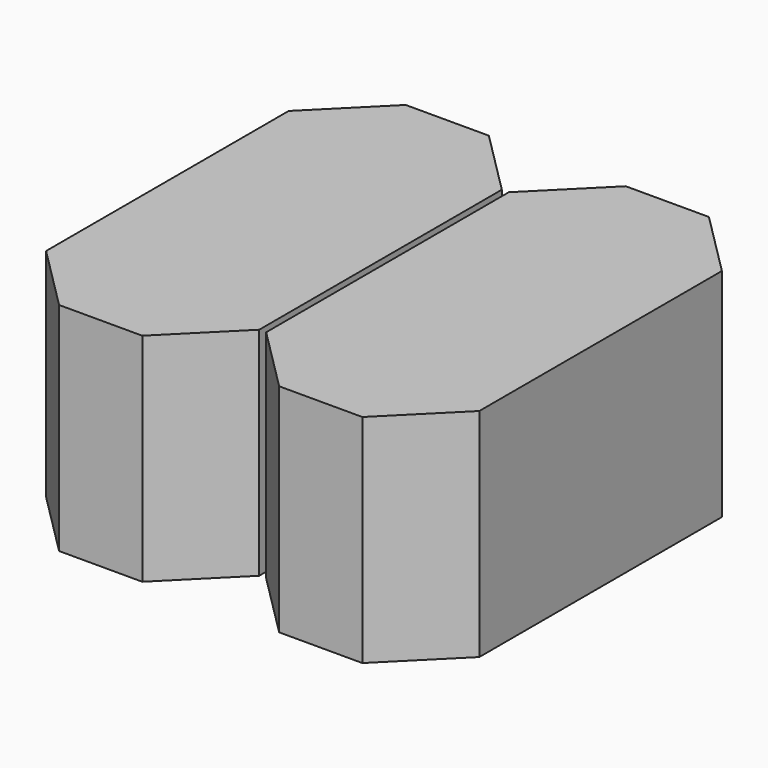
from build123d import *

# Parameters (mm, degrees)
BOX025_W         = 2.54
BOX025_H         = 3.2
BOX025_DEPTH     = 2.3
BOX023_W         = 2.46
BOX023_H         = 5
BOX023_DEPTH     = 2.5
CHAMFER004_SIZE  = 0.75
ARRAY010_X_COUNT = 2
ARRAY010_X_PITCH = 2.54


with BuildPart() as cube001:
    # Box025 → Box025 (new body)
    with BuildSketch(Plane(origin=(0, -0.33, 0.1), x_dir=(1, 0, 0), z_dir=(0, 0, 1))):
        with Locations((1.27, 1.6)):
            Rectangle(BOX025_W, BOX025_H)
    extrude(amount=BOX025_DEPTH)


with BuildPart() as body007:
    # Box023 → Box023 (new body)
    with BuildSketch(Plane(origin=(-1.23, -1.23, 0), x_dir=(1, 0, 0), z_dir=(0, 0, 1))):
        with Locations((1.23, 2.5)):
            Rectangle(BOX023_W, BOX023_H)
    extrude(amount=BOX023_DEPTH)

    # Chamfer004
    chamfer004_edges = [body007.edges().sort_by_distance(p)[0] for p in [
        (-1.23, -1.23, 1.25),
        (-1.23, 3.77, 1.25),
        (1.23, -1.23, 1.25),
        (1.23, 3.77, 1.25),
    ]]
    chamfer(chamfer004_edges, length=CHAMFER004_SIZE)

    # Array010 X: Body007 ×2


with BuildPart() as body007_1:
    add(body007.part)
    with Locations(*[(i * ARRAY010_X_PITCH, 0, 0) for i in range(1, ARRAY010_X_COUNT)]):
        add(body007.part)

    # Fusion021: union Cube001
    add(cube001.part)


solid = body007_1.part
